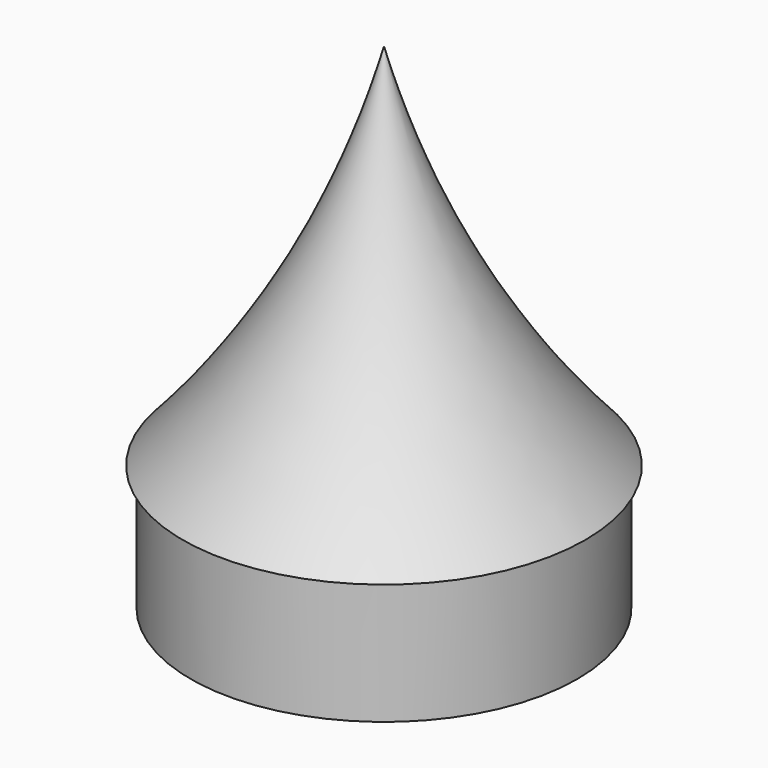
from build123d import *


with BuildPart() as f1:
    # F0 (on Front) → F1 (revolve)
    with BuildSketch(Plane.XZ):
        with BuildLine():
            Line((36.5125, 26.239856), (36.5125, 0))
            Line((36.5125, 0), (38.1, 0))
            Line((38.1, 0), (38.1, 24.652356))
            Line((38.1, 24.652356), (39.6875, 24.652356))
            ThreePointArc((39.6875, 24.652356), (15.557744, 58.701725), (0, 97.425894))
            Line((0, 97.425894), (0, 91.685494))
            ThreePointArc((0, 91.685494), (14.646039, 57.063626), (36.165226, 26.239856))
            Line((36.165226, 26.239856), (36.5125, 26.239856))
        make_face()
    revolve(axis=Axis((0, 0, 45.842747), (0, 0, 1)))


solid = f1.part
